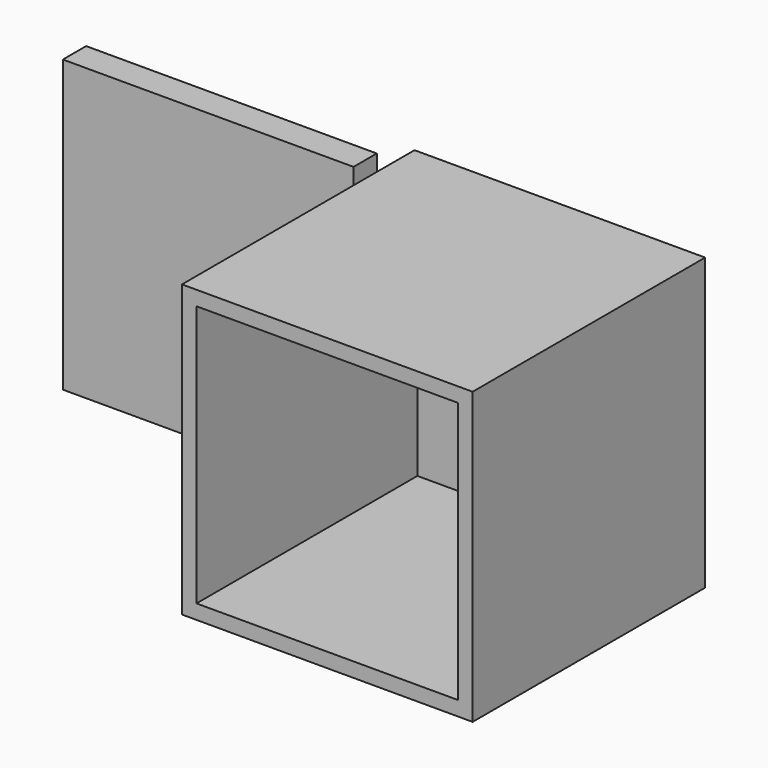
from build123d import *

# Parameters (mm, degrees)
F0_W     = 50
F0_H     = 50
F1_DEPTH = 50
F2_DEPTH = 50
F3_T     = -2.5
F4_W     = 50
F4_H     = 50
F5_DEPTH = 5


with BuildPart() as f1:
    # F0 (on Front) → F1 (new body)
    with BuildSketch(Plane.XZ):
        with Locations((25, -25)):
            Rectangle(F0_W, F0_H)
    extrude(amount=F1_DEPTH)

    # F0 (on Front) → F2 (join)
    with BuildSketch(Plane.XZ):
        with Locations((25, -25)):
            Rectangle(F0_W, F0_H)
    extrude(amount=F2_DEPTH)

    # F3
    f3_openings = [f1.faces().sort_by_distance(p)[0] for p in [
        (25, -50, -25),
    ]]
    offset(amount=F3_T, openings=f3_openings)


with BuildPart() as f5:
    # F4 (on Front) → F5 (new body)
    with BuildSketch(Plane.XZ):
        with Locations((-31.488541, -27.606686)):
            Rectangle(F4_W, F4_H)
    extrude(amount=F5_DEPTH)


solid = Compound([f1.part, f5.part])
